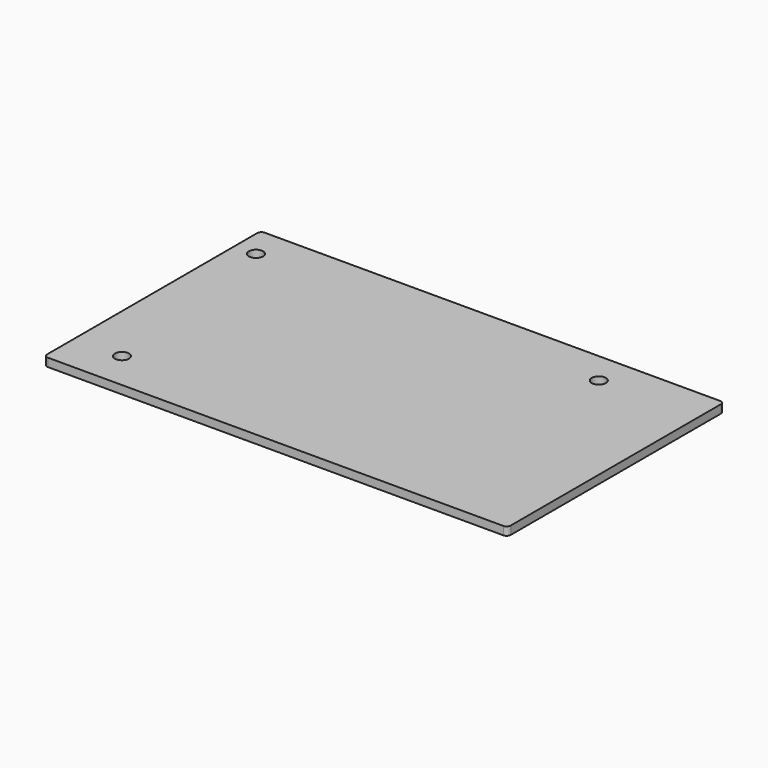
from build123d import *

# Parameters (mm, degrees)
F1_DEPTH = 2
F2_D     = 3.4


with BuildPart() as f1:
    # F0 (on Top) → F1 (new body)
    with BuildSketch(Plane.XY):
        with BuildLine():
            Line((-54.8, -32.6), (54.8, -32.6))
            ThreePointArc((54.8, -32.6), (55.5071067812, -32.3071067812), (55.8, -31.6))
            Line((55.8, -31.6), (55.8, 31.6))
            ThreePointArc((55.8, 31.6), (55.5071067812, 32.3071067812), (54.8, 32.6))
            Line((54.8, 32.6), (-54.8, 32.6))
            ThreePointArc((-54.8, 32.6), (-55.5071067812, 32.3071067812), (-55.8, 31.6))
            Line((-55.8, 31.6), (-55.8, -31.6))
            ThreePointArc((-55.8, -31.6), (-55.5071067812, -32.3071067812), (-54.8, -32.6))
        make_face()
    extrude(amount=F1_DEPTH)

    # F2 (through all)
    with Locations(Plane(origin=(0, 0, 0), x_dir=(1, 0, 0), z_dir=(0, 0, -1))):
        with Locations((-50.71, -24.85), (-44.37, 23.41), (31.84, -24.85)):
            Hole(F2_D / 2)


solid = f1.part
